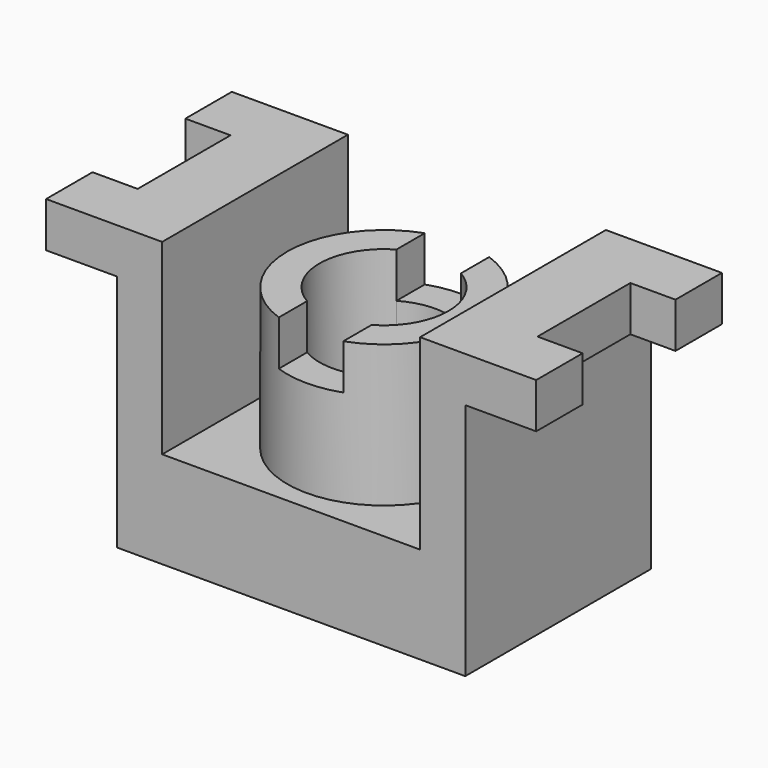
from build123d import *

# Parameters (mm, degrees)
F0_W      = 76
F0_H      = 44
F1_DEPTH  = 36
F2_W      = 11
F2_H      = 37
F3_DEPTH  = 36
F4_W      = 7
F4_H      = 18
F4_W_2    = 40
F4_H_2    = 36
F5_DEPTH  = 29
F6_R      = 15
F7_DEPTH  = 22
F9_DEPTH  = 7
F11_DEPTH = 22


with BuildPart() as f1:
    # F0 (on Front) → F1 (new body)
    with BuildSketch(Plane.XZ):
        with Locations((38, 22)):
            Rectangle(F0_W, F0_H)
    extrude(amount=-F1_DEPTH)

    # F2 (on face) → F3 (cut)
    with BuildSketch(Plane.XZ):
        with Locations((5.5, 18.5)):
            Rectangle(F2_W, F2_H)
        with Locations((70.5, 18.5)):
            Rectangle(F2_W, F2_H)
    extrude(amount=-F3_DEPTH, mode=Mode.SUBTRACT)

    # F4 (on face) → F5 (cut)
    with BuildSketch(Plane.XY.offset(44)):
        with Locations((72.5, 18)):
            Rectangle(F4_W, F4_H)
        with Locations((38, 18)):
            Rectangle(F4_W_2, F4_H_2)
        with Locations((3.5, 18)):
            Rectangle(F4_W, F4_H)
    extrude(amount=-F5_DEPTH, mode=Mode.SUBTRACT)

    # F6 (on face) → F7 (join)
    with BuildSketch(Plane.XY.offset(15)):
        with Locations((38, 18)):
            Circle(F6_R)
    extrude(amount=F7_DEPTH)

    # F8 (on face) → F9 (cut)
    with BuildSketch(Plane.XY.offset(37)):
        with BuildLine():
            Line((43, 18), (38, 18))
            Line((38, 18), (38, 3))
            ThreePointArc((38, 3), (40.5365296809, 3.2160216052), (43, 3.8578643763))
            Line((43, 3.8578643763), (43, 18))
        make_face()
        with BuildLine():
            Line((38, 3), (38, 18))
            Line((38, 18), (43, 18))
            Line((43, 18), (43, 32.1421356237))
            ThreePointArc((43, 32.1421356237), (38, 33), (33, 32.1421356237))
            Line((33, 32.1421356237), (33, 3.8578643763))
            ThreePointArc((33, 3.8578643763), (35.4634703191, 3.2160216052), (38, 3))
        make_face()
        with BuildLine():
            ThreePointArc((33, 32.1421356237), (38, 33), (43, 32.1421356237))
            Line((43, 32.1421356237), (43, 36))
            Line((43, 36), (33, 36))
            Line((33, 36), (33, 32.1421356237))
        make_face()
        with BuildLine():
            ThreePointArc((43, 3.8578643763), (40.5365296809, 3.2160216052), (38, 3))
            Line((38, 3), (38, 0))
            Line((38, 0), (43, 0))
            Line((43, 0), (43, 3.8578643763))
        make_face()
        with BuildLine():
            Line((38, 0), (38, 3))
            ThreePointArc((38, 3), (35.4634703191, 3.2160216052), (33, 3.8578643763))
            Line((33, 3.8578643763), (33, 0))
            Line((33, 0), (38, 0))
        make_face()
    extrude(amount=-F9_DEPTH, mode=Mode.SUBTRACT)

    # F10 (on face) → F11 (cut)
    with BuildSketch(Plane.XY.offset(37)):
        with BuildLine():
            ThreePointArc((33, 9.3397459622), (43, 9.3397459622), (48, 18))
            ThreePointArc((48, 18), (43, 26.6602540378), (33, 26.6602540378))
            Line((33, 26.6602540378), (33, 9.3397459622))
        make_face()
        with BuildLine():
            Line((33, 9.3397459622), (33, 26.6602540378))
            ThreePointArc((33, 26.6602540378), (28, 18), (33, 9.3397459622))
        make_face()
    extrude(amount=-F11_DEPTH, mode=Mode.SUBTRACT)


solid = f1.part
